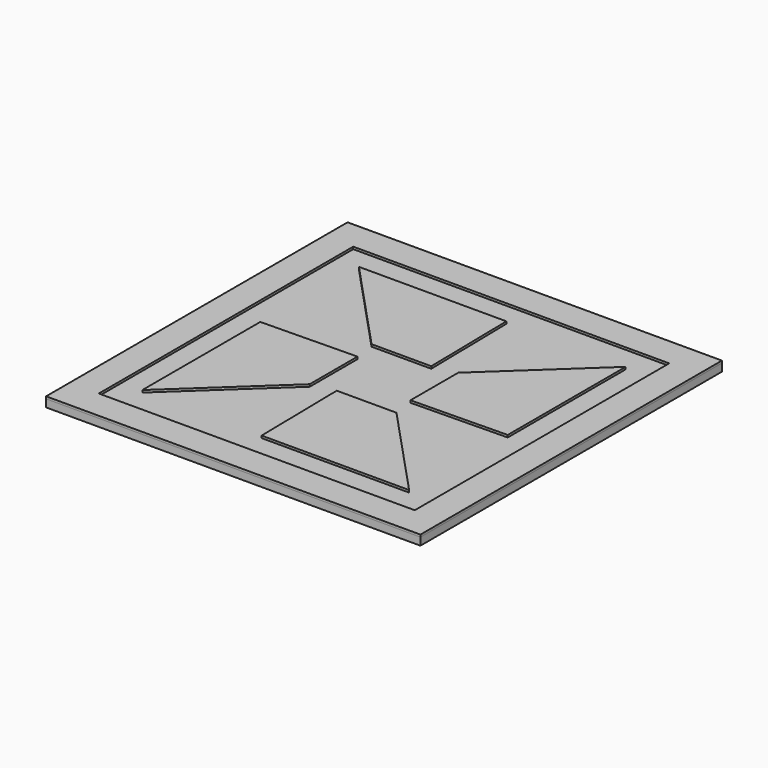
from build123d import *

# Parameters (mm, degrees)
F1_DEPTH = 3.302
F0_W     = 126.1589403974
F0_H     = 127
F0_W_2   = 106.4781456954
F0_H_2   = 107.188
F2_W     = 126.1589403974
F2_H     = 127
F3_DEPTH = 2.54


with BuildPart() as f1:
    # F0 (on Top) → F1 (new body)
    with BuildSketch(Plane.XY):
        Polygon((48.3132749796, 76.7144486308), (68.4366269667, 76.7144486308), (67.8877709749, 109.0374365449), (18.1845979622, 109.0374365449), align=None)
    extrude(amount=F1_DEPTH)


with BuildPart() as f1b:
    # F0 (on Top) → F1, piece 2 (new body)
    with BuildSketch(Plane.XY):
        Polygon((108.6169067436, 58.6916992238), (108.6169067436, 108.3948722365), (76.2939188295, 78.2661952191), (76.2939188295, 58.142843232), align=None)
    extrude(amount=F1_DEPTH)


with BuildPart() as f1c:
    # F0 (on Top) → F1, piece 3 (new body)
    with BuildSketch(Plane.XY):
        Polygon((57.7223134307, 50.2855513692), (58.2711694225, 17.9625634551), (107.9743424352, 17.9625634551), (77.8456654178, 50.2855513692), align=None)
    extrude(amount=F1_DEPTH)


with BuildPart() as f1d:
    # F0 (on Top) → F1, piece 4 (new body)
    with BuildSketch(Plane.XY):
        Polygon((49.8650215679, 68.857156768), (17.5420336538, 68.3083007762), (17.5420336538, 18.6051277635), (49.8650215679, 48.7338047809), align=None)
    extrude(amount=F1_DEPTH)


with BuildPart() as f1e:
    # F0 (on Top) → F1, piece 5 (new body)
    with BuildSketch(Plane.XY):
        with Locations((63.0794701987, 63.5)):
            Rectangle(F0_W, F0_H)
        with Locations((63.0794701987, 63.5)):
            Rectangle(F0_W_2, F0_H_2, mode=Mode.SUBTRACT)
    extrude(amount=F1_DEPTH)


with BuildPart() as f3:
    # F2 (on Top) → F3 (new body)
    with BuildSketch(Plane.XY):
        with Locations((63.0794701987, 63.5)):
            Rectangle(F2_W, F2_H)
    extrude(amount=F3_DEPTH)


solid = Compound([f1.part, f1b.part, f1c.part, f1d.part, f1e.part, f3.part])
